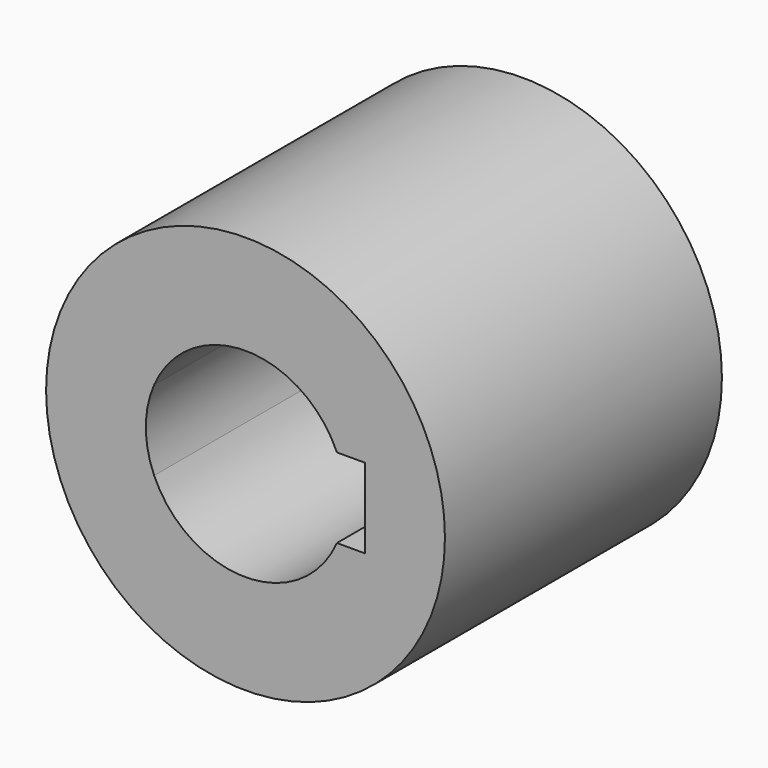
from build123d import *

# Parameters (mm, degrees)
F0_R     = 25
F1_DEPTH = 43.4


with BuildPart() as f1:
    # F0 (on Front) → F1 (new body)
    with BuildSketch(Plane.XZ):
        Circle(F0_R)
        with BuildLine():
            ThreePointArc((-11.4564392374, 5), (0, 12.5), (11.4564392374, 5))
            Line((11.4564392374, 5), (15, 5))
            Line((15, 5), (15, -5))
            Line((15, -5), (11.4564392374, -5))
            ThreePointArc((11.4564392374, -5), (0, -12.5), (-11.4564392374, -5))
            Line((-11.4564392374, -5), (-15, -5))
            Line((-15, -5), (-15, 5))
            Line((-15, 5), (-11.4564392374, 5))
        make_face(mode=Mode.SUBTRACT)
        with BuildLine():
            ThreePointArc((-11.4564392374, -5), (-12.5, 0), (-11.4564392374, 5))
            Line((-11.4564392374, 5), (-15, 5))
            Line((-15, 5), (-15, -5))
            Line((-15, -5), (-11.4564392374, -5))
        make_face()
    extrude(amount=F1_DEPTH)


solid = f1.part
